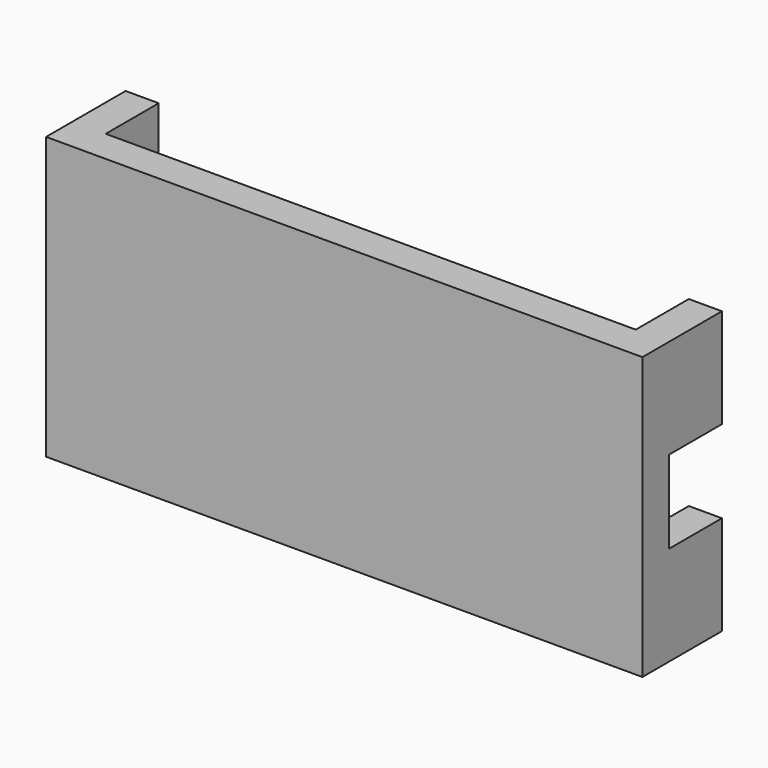
from build123d import *

# Parameters (mm, degrees)
F1_DEPTH = 10
F2_DEPTH = 85
F3_W     = 20
F3_H     = 25
F4_DEPTH = 88.4


with BuildPart() as f1:
    # F0 (on Top) → F1 (new body)
    with BuildSketch(Plane.XY):
        Polygon((-180, 30), (-180, 0), (0, 0), (0, 30), (-10, 30), (-10, 10), (-170, 10), (-170, 30), align=None)
    extrude(amount=F1_DEPTH)

    # F1_face (on face) → F2 (join)
    with BuildSketch(Plane(origin=(-90, 7.727273, 10), x_dir=(1, 0, 0), z_dir=(0, 0, 1))):
        Polygon((-90, 22.272727), (-90, -7.727273), (90, -7.727273), (90, 22.272727), (80, 22.272727), (80, 2.272727), (-80, 2.272727), (-80, 22.272727), align=None)
    extrude(amount=-F2_DEPTH)

    # F3 (on face) → F4 (cut)
    with BuildSketch(Plane.YZ):
        with Locations((20, -32.5)):
            Rectangle(F3_W, F3_H)
    extrude(amount=-F4_DEPTH, mode=Mode.SUBTRACT)


solid = f1.part
